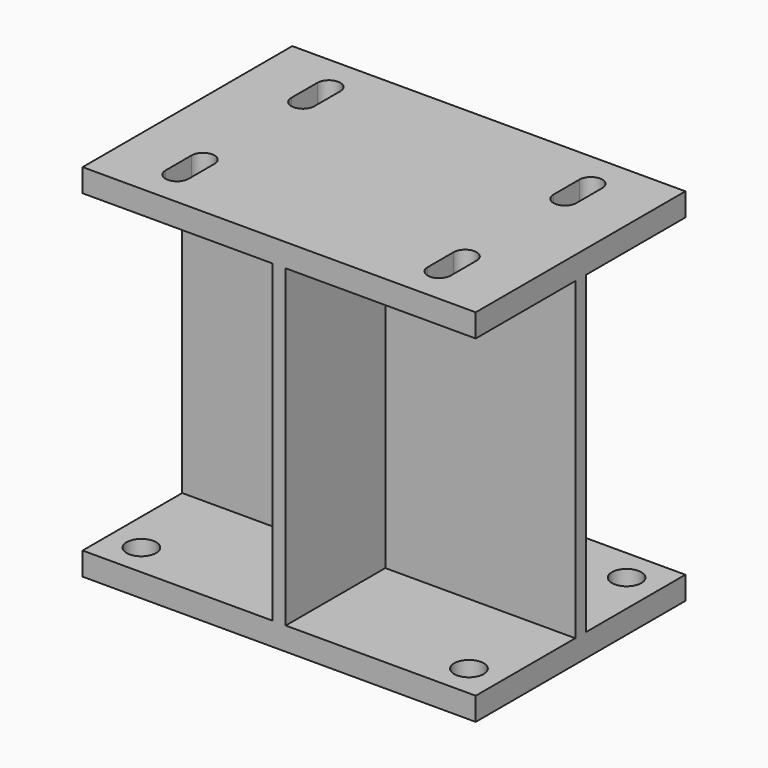
from build123d import *

# Parameters (mm, degrees)
F0_W     = 190.5
F0_H     = 127
F0_R     = 7.14375
F1_DEPTH = 11.176
F2_W     = 6.35
F2_H     = 60.325
F2_H_2   = 6.35
F2_W_2   = 92.075
F3_DEPTH = 152.4
F4_W     = 190.5
F4_H     = 127
F5_DEPTH = 11.176
F7_DEPTH = 25.4


with BuildPart() as f1:
    # F0 (on Top) → F1 (new body)
    with BuildSketch(Plane.XY):
        Rectangle(F0_W, F0_H)
        with Locations((-79.375, -47.752)):
            Circle(F0_R, mode=Mode.SUBTRACT)
        with Locations((79.375, -47.752)):
            Circle(F0_R, mode=Mode.SUBTRACT)
        with Locations((-79.375, 47.752)):
            Circle(F0_R, mode=Mode.SUBTRACT)
        with Locations((79.375, 47.752)):
            Circle(F0_R, mode=Mode.SUBTRACT)
    extrude(amount=-F1_DEPTH)

    # F2 (on face) → F3 (join)
    with BuildSketch(Plane.XY):
        with Locations((0, 33.3375)):
            Rectangle(F2_W, F2_H)
        Rectangle(F2_W, F2_H_2)
        with Locations((-49.2125, 0)):
            Rectangle(F2_W_2, F2_H_2)
        with Locations((49.2125, 0)):
            Rectangle(F2_W_2, F2_H_2)
        with Locations((0, -33.3375)):
            Rectangle(F2_W, F2_H)
    extrude(amount=F3_DEPTH)

    # F4 (on face) → F5 (join)
    with BuildSketch(Plane.XY.offset(152.4)):
        Rectangle(F4_W, F4_H)
    extrude(amount=F5_DEPTH)

    # F6 (on face) → F7 (cut)
    with BuildSketch(Plane.XY.offset(163.576)):
        with BuildLine():
            ThreePointArc((-57.94375, -30.226), (-63.5, -24.66975), (-69.05625, -30.226))
            Line((-69.05625, -30.226), (-69.05625, -45.974))
            ThreePointArc((-69.05625, -45.974), (-63.5, -51.53025), (-57.94375, -45.974))
            Line((-57.94375, -45.974), (-57.94375, -30.226))
        make_face()
        with BuildLine():
            Line((69.05625, -45.974), (69.05625, -30.226))
            ThreePointArc((69.05625, -30.226), (63.5, -24.66975), (57.94375, -30.226))
            Line((57.94375, -30.226), (57.94375, -45.974))
            ThreePointArc((57.94375, -45.974), (63.5, -51.53025), (69.05625, -45.974))
        make_face()
        with BuildLine():
            Line((-69.05625, 45.974), (-69.05625, 30.226))
            ThreePointArc((-69.05625, 30.226), (-63.5, 24.66975), (-57.94375, 30.226))
            Line((-57.94375, 30.226), (-57.94375, 45.974))
            ThreePointArc((-57.94375, 45.974), (-63.5, 51.53025), (-69.05625, 45.974))
        make_face()
        with BuildLine():
            ThreePointArc((57.94375, 30.226), (63.5, 24.66975), (69.05625, 30.226))
            Line((69.05625, 30.226), (69.05625, 45.974))
            ThreePointArc((69.05625, 45.974), (63.5, 51.53025), (57.94375, 45.974))
            Line((57.94375, 45.974), (57.94375, 30.226))
        make_face()
    extrude(amount=-F7_DEPTH, mode=Mode.SUBTRACT)


solid = f1.part
